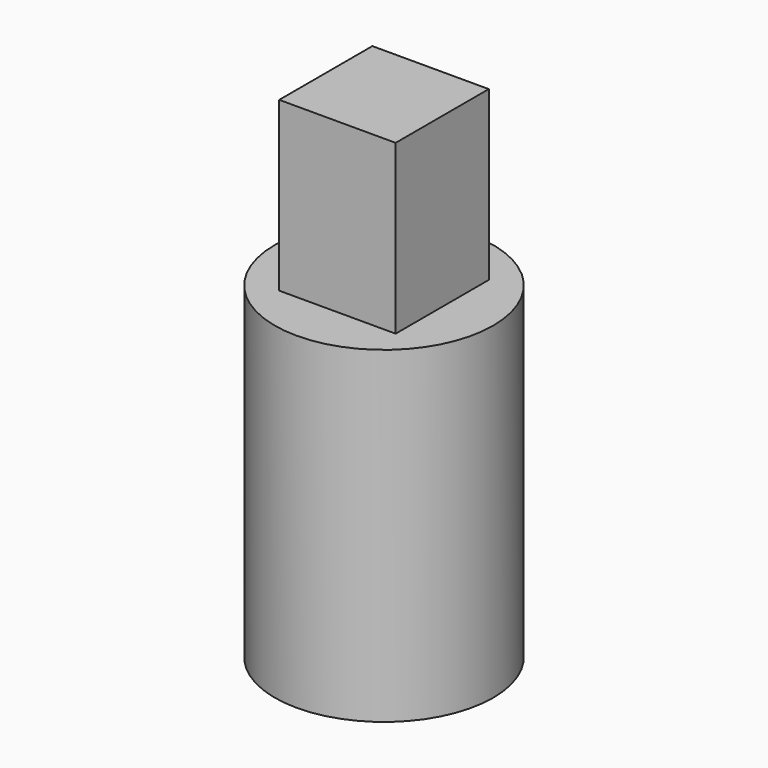
from build123d import *

# Parameters (mm, degrees)
F0_R     = 6.5
F0_R_2   = 5
F1_DEPTH = 8
F2_R     = 6.5
F3_DEPTH = 11
F4_R     = 6.5
F5_DEPTH = 0.5
F6_W     = 6.929646
F6_H     = 6.929646
F7_DEPTH = 10


with BuildPart() as f1:
    # F0 (on Top) → F1 (new body)
    with BuildSketch(Plane.XY):
        Circle(F0_R)
        Circle(F0_R_2, mode=Mode.SUBTRACT)
    extrude(amount=F1_DEPTH)

    # F2 (on face) → F3 (join)
    with BuildSketch(Plane.XY.offset(8)):
        Circle(F2_R)
        Polygon((4.755283, 1.545085), (2.938926, -4.045085), (-2.938926, -4.045085), (-4.755283, 1.545085), (0, 5), align=None, mode=Mode.SUBTRACT)
    extrude(amount=F3_DEPTH)

    # F4 (on face) → F5 (join)
    with BuildSketch(Plane.XY.offset(19)):
        Circle(F4_R)
    extrude(amount=F5_DEPTH)

    # F6 (on face) → F7 (join)
    with BuildSketch(Plane.XY.offset(19.5)):
        Rectangle(F6_W, F6_H)
    extrude(amount=F7_DEPTH)


solid = f1.part
